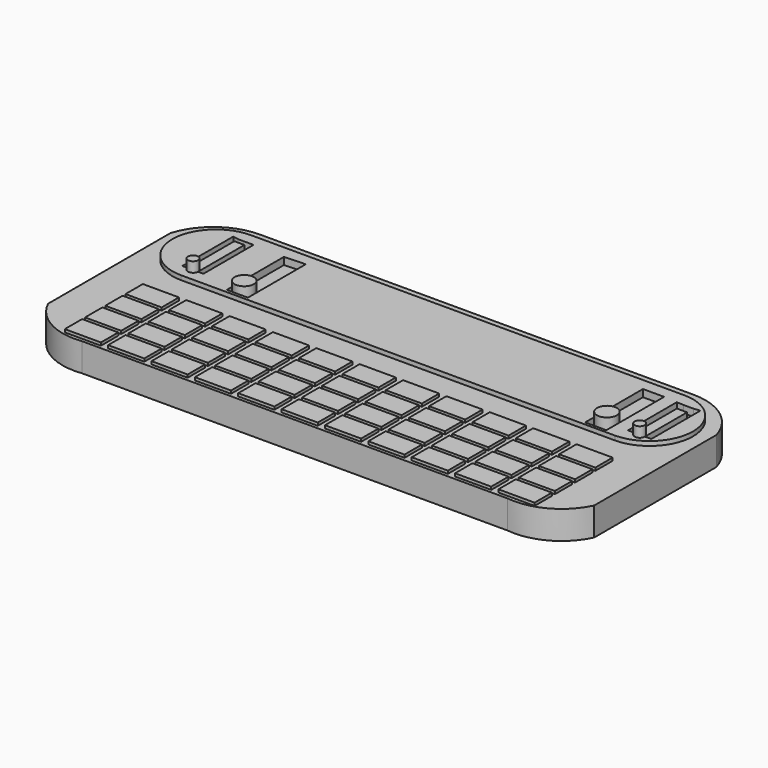
from build123d import *

# Parameters (mm, degrees)
F1_DEPTH  = 3.908
F2_W      = 5
F2_H      = 3
F3_DEPTH  = 0.4
F5_DEPTH  = 0.6
F6_R      = 0.7
F7_DEPTH  = 2
F9_DEPTH  = 1
F10_W     = 2.93
F10_H     = 10
F11_DEPTH = 1
F12_R     = 1.33
F13_DEPTH = 2
F14_R     = 1.3756899266
F15_DEPTH = 2
F16_W     = 1.399342607
F16_H     = 0.6225864599
F17_DEPTH = 1
F18_W     = 1.4117685616
F18_H     = 1.1006891727
F19_DEPTH = 1


with BuildPart() as f1:
    # F0 (on Top) → F1 (new body)
    with BuildSketch(Plane.XY):
        with BuildLine():
            Line((9.5079050359, 31.9392625443), (-50.4920949641, 31.9392625443))
            ThreePointArc((-50.4920949641, 31.9392625443), (-55.3452665025, 30.3296304343), (-58.2746212783, 26.1387987617))
            Line((-58.2746212783, 26.1387987617), (-58.2746212783, 4.9958918444))
            ThreePointArc((-58.2746212783, 4.9958918444), (-54.8407592836, 1.3667370406), (-49.9322030226, 0.4349386597))
            Line((-49.9322030226, 0.4349386597), (8.9480130945, 0.4349386597))
            ThreePointArc((8.9480130945, 0.4349386597), (13.8565693554, 1.3667370406), (17.2904313502, 4.9958918444))
            Line((17.2904313502, 4.9958918444), (17.2904313502, 26.1387987617))
            ThreePointArc((17.2904313502, 26.1387987617), (14.3610765743, 30.3296304343), (9.5079050359, 31.9392625443))
        make_face()
    extrude(amount=F1_DEPTH)

    # F2 (on face) → F3 (join)
    with BuildSketch(Plane.XY.offset(3.908)):
        with Locations((-50.1746212783, 12.8892625443)):
            Rectangle(F2_W, F2_H)
        with Locations((-50.1746212783, 9.3892625443)):
            Rectangle(F2_W, F2_H)
        with Locations((-50.1746212783, 5.8892625443)):
            Rectangle(F2_W, F2_H)
        with Locations((-50.1746212783, 2.3892625443)):
            Rectangle(F2_W, F2_H)
        with Locations((-44.1746212783, 12.8892625443)):
            Rectangle(F2_W, F2_H)
        with Locations((-44.1746212783, 9.3892625443)):
            Rectangle(F2_W, F2_H)
        with Locations((-44.1746212783, 5.8892625443)):
            Rectangle(F2_W, F2_H)
        with Locations((-44.1746212783, 2.3892625443)):
            Rectangle(F2_W, F2_H)
        with Locations((-38.1746212783, 12.8892625443)):
            Rectangle(F2_W, F2_H)
        with Locations((-38.1746212783, 9.3892625443)):
            Rectangle(F2_W, F2_H)
        with Locations((-38.1746212783, 5.8892625443)):
            Rectangle(F2_W, F2_H)
        with Locations((-38.1746212783, 2.3892625443)):
            Rectangle(F2_W, F2_H)
        with Locations((-32.1746212783, 12.8892625443)):
            Rectangle(F2_W, F2_H)
        with Locations((-32.1746212783, 9.3892625443)):
            Rectangle(F2_W, F2_H)
        with Locations((-32.1746212783, 5.8892625443)):
            Rectangle(F2_W, F2_H)
        with Locations((-32.1746212783, 2.3892625443)):
            Rectangle(F2_W, F2_H)
        with Locations((-26.1746212783, 12.8892625443)):
            Rectangle(F2_W, F2_H)
        with Locations((-26.1746212783, 9.3892625443)):
            Rectangle(F2_W, F2_H)
        with Locations((-26.1746212783, 5.8892625443)):
            Rectangle(F2_W, F2_H)
        with Locations((-26.1746212783, 2.3892625443)):
            Rectangle(F2_W, F2_H)
        with Locations((-20.1746212783, 12.8892625443)):
            Rectangle(F2_W, F2_H)
        with Locations((-20.1746212783, 9.3892625443)):
            Rectangle(F2_W, F2_H)
        with Locations((-20.1746212783, 5.8892625443)):
            Rectangle(F2_W, F2_H)
        with Locations((-20.1746212783, 2.3892625443)):
            Rectangle(F2_W, F2_H)
        with Locations((-14.1746212783, 12.8892625443)):
            Rectangle(F2_W, F2_H)
        with Locations((-14.1746212783, 9.3892625443)):
            Rectangle(F2_W, F2_H)
        with Locations((-14.1746212783, 5.8892625443)):
            Rectangle(F2_W, F2_H)
        with Locations((-14.1746212783, 2.3892625443)):
            Rectangle(F2_W, F2_H)
        with Locations((-8.1746212783, 12.8892625443)):
            Rectangle(F2_W, F2_H)
        with Locations((-8.1746212783, 9.3892625443)):
            Rectangle(F2_W, F2_H)
        with Locations((-8.1746212783, 5.8892625443)):
            Rectangle(F2_W, F2_H)
        with Locations((-8.1746212783, 2.3892625443)):
            Rectangle(F2_W, F2_H)
        with Locations((-2.1746212783, 12.8892625443)):
            Rectangle(F2_W, F2_H)
        with Locations((-2.1746212783, 9.3892625443)):
            Rectangle(F2_W, F2_H)
        with Locations((-2.1746212783, 5.8892625443)):
            Rectangle(F2_W, F2_H)
        with Locations((-2.1746212783, 2.3892625443)):
            Rectangle(F2_W, F2_H)
        with Locations((3.8253787217, 12.8892625443)):
            Rectangle(F2_W, F2_H)
        with Locations((3.8253787217, 9.3892625443)):
            Rectangle(F2_W, F2_H)
        with Locations((3.8253787217, 5.8892625443)):
            Rectangle(F2_W, F2_H)
        with Locations((3.8253787217, 2.3892625443)):
            Rectangle(F2_W, F2_H)
        with Locations((9.8253787217, 12.8892625443)):
            Rectangle(F2_W, F2_H)
        with Locations((9.8253787217, 9.3892625443)):
            Rectangle(F2_W, F2_H)
        with Locations((9.8253787217, 5.8892625443)):
            Rectangle(F2_W, F2_H)
        with Locations((9.8253787217, 2.3892625443)):
            Rectangle(F2_W, F2_H)
    extrude(amount=F3_DEPTH)

    # F4 (on face) → F5 (join)
    with BuildSketch(Plane.XY.offset(3.908)):
        with BuildLine():
            Line((9.5079050359, 30.3127188236), (-50.4920949641, 30.3127188236))
            ThreePointArc((-50.4920949641, 30.3127188236), (-56.5099810663, 24.2948327214), (-50.4920949641, 18.2769466192))
            Line((-50.4920949641, 18.2769466192), (9.5079050359, 18.2769466192))
            ThreePointArc((9.5079050359, 18.2769466192), (15.5257911381, 24.2948327214), (9.5079050359, 30.3127188236))
        make_face()
    extrude(amount=F5_DEPTH)

    # F6 (on face) → F7 (join)
    with BuildSketch(Plane.XY.offset(3.908)):
        with Locations((-50.2746212783, 20.0753957033)):
            Circle(F6_R)
        with Locations((11.5204313502, 20.0769466192)):
            Circle(F6_R)
    extrude(amount=F7_DEPTH)

    # F8 (on face) → F9 (cut)
    with BuildSketch(Plane.XY.offset(4.508)):
        Polygon((-41.5811581191, 28.6949464226), (-44.5046212783, 28.586670842), (-44.5046212783, 18.6949464226), (-41.5811581191, 18.6949464226), align=None)
    extrude(amount=-F9_DEPTH, mode=Mode.SUBTRACT)

    # F10 (on face) → F11 (cut)
    with BuildSketch(Plane.XY.offset(4.508)):
        with Locations((6.5654313502, 23.6607547849)):
            Rectangle(F10_W, F10_H)
    extrude(amount=-F11_DEPTH, mode=Mode.SUBTRACT)

    # F12 (on face) → F13 (join)
    with BuildSketch(Plane.XY.offset(3.508)):
        with Locations((-43.18048805, 20.0505759567)):
            Circle(F12_R)
    extrude(amount=F13_DEPTH)

    # F14 (on face) → F15 (join)
    with BuildSketch(Plane.XY.offset(3.508)):
        with Locations((6.5654313502, 20.5990727991)):
            Circle(F14_R)
    extrude(amount=F15_DEPTH)

    # F16 (on face) → F17 (cut)
    with BuildSketch(Plane.XY.offset(4.508)):
        Polygon((-49.5749499748, 28.0899943671), (-49.5749499748, 20.0539465295), (-48.8225578504, 20.0539465295), (-48.8225578504, 28.712580827), (-49.5749499748, 28.712580827), align=None)
        with Locations((-50.2746212783, 28.401287597)):
            Rectangle(F16_W, F16_H)
        Polygon((-50.9742925818, 20.0539465295), (-50.9742925818, 28.0899943671), (-50.9742925818, 28.712580827), (-51.745954901, 28.866155418), (-51.745954901, 20.0539465295), align=None)
    extrude(amount=-F17_DEPTH, mode=Mode.SUBTRACT)

    # F18 (on face) → F19 (cut)
    with BuildSketch(Plane.XY.offset(4.508)):
        Polygon((12.2324135154, 27.3832175881), (12.2324135154, 20.0942382216), (13.1112495437, 20.0942382216), (13.1112495437, 28.6027491093), (12.2324135154, 28.4839067608), align=None)
        with Locations((11.5265292347, 27.9335621744)):
            Rectangle(F18_W, F18_H)
        Polygon((10.8206449539, 20.0942382216), (10.8206449539, 27.3832175881), (10.8206449539, 28.4839067608), (9.8794903606, 28.5417735577), (9.8794903606, 20.0942382216), align=None)
    extrude(amount=-F19_DEPTH, mode=Mode.SUBTRACT)


solid = f1.part
